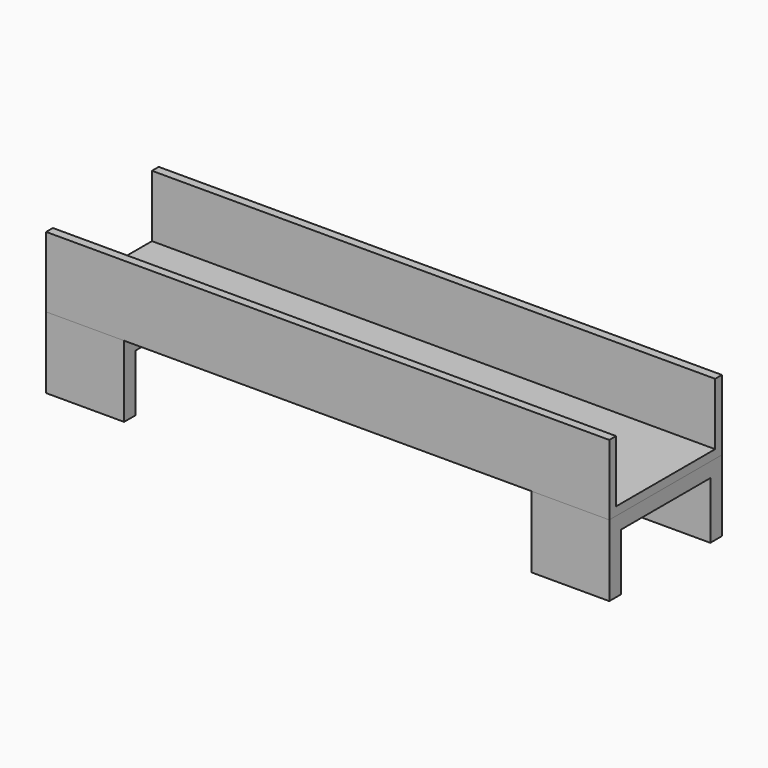
from build123d import *

# Parameters (mm, degrees)
F0_W     = 200
F0_H     = 25
F1_DEPTH = 50
F2_W     = 44
F2_H     = 22
F3_DEPTH = 200.001
F4_W     = 27.7002811432
F4_H     = 50
F5_DEPTH = 25.4
F6_W     = 39.6731255576
F6_H     = 20.2365627788
F7_DEPTH = 200.001


with BuildPart() as f1:
    # F0 (on Front) → F1 (new body)
    with BuildSketch(Plane.XZ):
        Rectangle(F0_W, F0_H)
    extrude(amount=F1_DEPTH)

    # F2 (on face) → F3 (cut, through all)
    with BuildSketch(Plane.YZ.offset(100)):
        with Locations((-25, 1.5)):
            Rectangle(F2_W, F2_H)
    extrude(amount=-F3_DEPTH, mode=Mode.SUBTRACT)


with BuildPart() as f5:
    # F4 (on face) → F5 (new body)
    with BuildSketch(Plane(origin=(0, 0, -12.5), x_dir=(1, 0, 0), z_dir=(0, 0, -1))):
        with Locations((-86.1498594284, 25)):
            Rectangle(F4_W, F4_H)
    extrude(amount=F5_DEPTH)

    # F6 (on face) → F7 (cut, through all)
    with BuildSketch(Plane(origin=(-100, 0, 0), x_dir=(0, -1, 0), z_dir=(-1, 0, 0))):
        with Locations((25, -27.7817186106)):
            Rectangle(F6_W, F6_H)
    extrude(amount=-F7_DEPTH, mode=Mode.SUBTRACT)


with BuildPart() as f8_1:
    # F8: instance of F5
    add(f5.part.mirror(Plane.YZ))


solid = Compound([f1.part, f5.part, f8_1.part])
